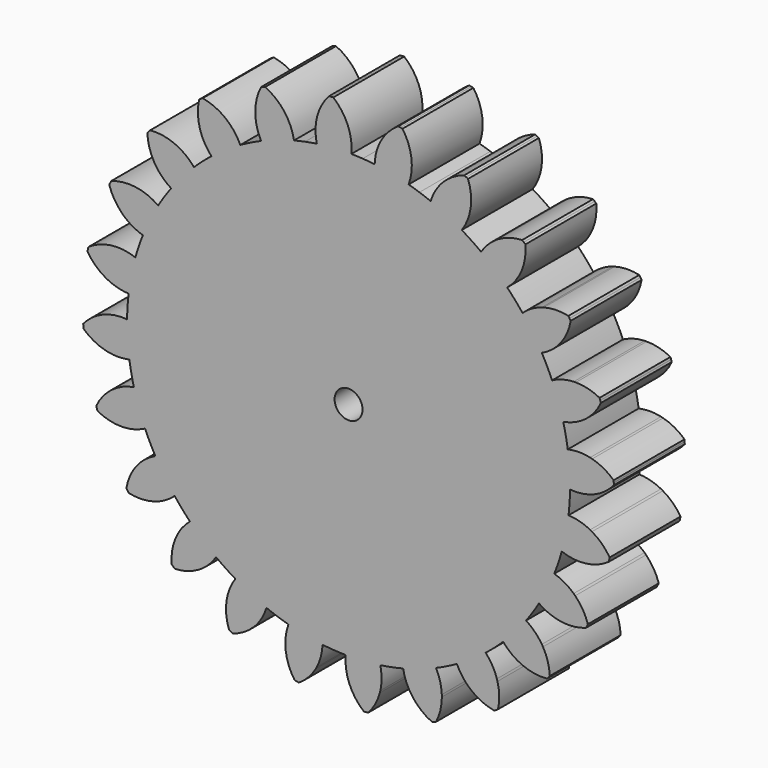
from build123d import *

# Parameters (mm, degrees)
F1_DEPTH = 12.7
F2_COUNT = 24
F2_ANGLE = 345
F4_D     = 8


with BuildPart() as f1:
    # F0 (on Front) → F1 (new body, symmetric)
    with BuildSketch(Plane.XZ):
        with BuildLine():
            Line((-31.75, 54.9926131403), (0, 0))
            Line((0, 0), (-16.435009364, 61.3362899694))
            ThreePointArc((-16.435009364, 61.3362899694), (-24.3003979552, 58.6663503145), (-31.75, 54.9926131403))
        make_face()
        with BuildLine():
            Line((-44.9012806053, 44.9012806053), (0, 0))
            Line((0, 0), (-31.75, 54.9926131403))
            ThreePointArc((-31.75, 54.9926131403), (-38.6563507421, 50.3779371085), (-44.9012806053, 44.9012806053))
        make_face()
        with BuildLine():
            Line((0, 0), (0, 55.245))
            ThreePointArc((0, 55.245), (-1.8403425433, 55.3614126181), (-3.6513473128, 55.7087946836))
            Line((-3.6513473128, 55.7087946836), (0, 0))
        make_face()
        with BuildLine():
            Line((-63.4999718868, 0.0597526459), (0, 0))
            Line((0, 0), (-61.3362899694, 16.435009364))
            ThreePointArc((-61.3362899694, 16.435009364), (-62.952842086, 8.3180330187), (-63.4999718868, 0.0597526459))
        make_face()
        with BuildLine():
            Line((-16.435009364, 61.3362899694), (0, 0))
            Line((0, 0), (-3.6513473128, 55.7087946836))
            ThreePointArc((-3.6513473128, 55.7087946836), (-8.7052871089, 58.122937224), (-12.4789617732, 62.26175))
            ThreePointArc((-12.4789617732, 62.26175), (-14.4643890572, 61.8306675461), (-16.435009364, 61.3362899694))
        make_face()
        with BuildLine():
            Line((-61.3362899694, 16.435009364), (0, 0))
            Line((0, 0), (-54.9926131403, 31.75))
            ThreePointArc((-54.9926131403, 31.75), (-58.6663503145, 24.3003979552), (-61.3362899694, 16.435009364))
        make_face()
        with BuildLine():
            Line((-54.9926131403, 31.75), (0, 0))
            Line((0, 0), (-44.9012806053, 44.9012806053))
            ThreePointArc((-44.9012806053, 44.9012806053), (-50.3779371085, 38.6563507421), (-54.9926131403, 31.75))
        make_face()
        with BuildLine():
            Line((54.9926131403, 31.75), (0, 0))
            Line((0, 0), (61.3362899694, 16.435009364))
            ThreePointArc((61.3362899694, 16.435009364), (58.6663503145, 24.3003979552), (54.9926131403, 31.75))
        make_face()
        with BuildLine():
            Line((31.75, 54.9926131403), (0, 0))
            Line((0, 0), (44.9012806053, 44.9012806053))
            ThreePointArc((44.9012806053, 44.9012806053), (38.6563507421, 50.3779371085), (31.75, 54.9926131403))
        make_face()
        with BuildLine():
            Line((61.3362899694, 16.435009364), (0, 0))
            Line((0, 0), (63.5, 0))
            ThreePointArc((63.5, 0), (62.9567486972, 8.288413206), (61.3362899694, 16.435009364))
        make_face()
        with BuildLine():
            ThreePointArc((12.4789617732, 62.26175), (7.158199276, 57.1194773035), (0, 55.245))
            Line((0, 55.245), (0, 0))
            Line((0, 0), (16.435009364, 61.3362899694))
            ThreePointArc((16.435009364, 61.3362899694), (14.4643890572, 61.8306675461), (12.4789617732, 62.26175))
        make_face()
        with BuildLine():
            Line((16.435009364, 61.3362899694), (0, 0))
            Line((0, 0), (31.75, 54.9926131403))
            ThreePointArc((31.75, 54.9926131403), (24.3003979552, 58.6663503145), (16.435009364, 61.3362899694))
        make_face()
        with BuildLine():
            Line((44.9012806053, 44.9012806053), (0, 0))
            Line((0, 0), (54.9926131403, 31.75))
            ThreePointArc((54.9926131403, 31.75), (50.3779371085, 38.6563507421), (44.9012806053, 44.9012806053))
        make_face()
        with BuildLine():
            Line((-54.9926131403, -31.75), (0, 0))
            Line((0, 0), (-61.3362899694, -16.435009364))
            ThreePointArc((-61.3362899694, -16.435009364), (-58.6663503145, -24.3003979552), (-54.9926131403, -31.75))
        make_face()
        with BuildLine():
            Line((-31.75, -54.9926131403), (0, 0))
            Line((0, 0), (-44.9012806053, -44.9012806053))
            ThreePointArc((-44.9012806053, -44.9012806053), (-38.6563507421, -50.3779371085), (-31.75, -54.9926131403))
        make_face()
        with BuildLine():
            Line((-44.9012806053, -44.9012806053), (0, 0))
            Line((0, 0), (-54.9926131403, -31.75))
            ThreePointArc((-54.9926131403, -31.75), (-50.3779371085, -38.6563507421), (-44.9012806053, -44.9012806053))
        make_face()
        with BuildLine():
            Line((0, -63.5), (0, 0))
            Line((0, 0), (-16.435009364, -61.3362899694))
            ThreePointArc((-16.435009364, -61.3362899694), (-8.288413206, -62.9567486972), (0, -63.5))
        make_face()
        with BuildLine():
            Line((-16.435009364, -61.3362899694), (0, 0))
            Line((0, 0), (-31.75, -54.9926131403))
            ThreePointArc((-31.75, -54.9926131403), (-24.3003979552, -58.6663503145), (-16.435009364, -61.3362899694))
        make_face()
        with BuildLine():
            Line((-61.3362899694, -16.435009364), (0, 0))
            Line((0, 0), (-63.4999718868, 0.0597526459))
            ThreePointArc((-63.4999718868, 0.0597526459), (-62.9606413722, -8.2587915585), (-61.3362899694, -16.435009364))
        make_face()
        with BuildLine():
            Line((0, 55.245), (0, 63.5))
            ThreePointArc((0, 63.5), (-2.0776617592, 63.4660013047), (-4.1530987061, 63.3640416257))
            Line((-4.1530987061, 63.3640416257), (-3.6513473128, 55.7087946836))
            ThreePointArc((-3.6513473128, 55.7087946836), (-1.8403425433, 55.3614126181), (0, 55.245))
        make_face()
        with BuildLine():
            Line((-3.6513473128, 55.7087946836), (-4.1530987061, 63.3640416257))
            ThreePointArc((-4.1530987061, 63.3640416257), (-6.6306628061, 63.1528646282), (-9.0980596657, 62.8448511043))
            ThreePointArc((-9.0980596657, 62.8448511043), (-10.7924494564, 62.576137902), (-12.4789617732, 62.26175))
            ThreePointArc((-12.4789617732, 62.26175), (-8.7052871089, 58.122937224), (-3.6513473128, 55.7087946836))
        make_face()
        with BuildLine():
            ThreePointArc((0.8173253887, 63.4947397759), (0.4086711578, 63.4986849304), (0, 63.5))
            Line((0, 63.5), (0, 55.245))
            ThreePointArc((0, 55.245), (7.158199276, 57.1194773035), (12.4789617732, 62.26175))
            ThreePointArc((12.4789617732, 62.26175), (6.6766667597, 63.1480175538), (0.8173253887, 63.4947397759))
        make_face()
        with BuildLine():
            Line((0, 63.5), (0, 69.85))
            Line((0, 69.85), (-4.4715384401, 68.2224931064))
            Line((-4.4715384401, 68.2224931064), (-4.1530987061, 63.3640416257))
            ThreePointArc((-4.1530987061, 63.3640416257), (-2.0776617592, 63.4660013047), (0, 63.5))
        make_face()
        with BuildLine():
            Line((-4.1530987061, 63.3640416257), (-4.4715384401, 68.2224931064))
            Line((-4.4715384401, 68.2224931064), (-9.4600431371, 66.4068258832))
            ThreePointArc((-9.4600431371, 66.4068258832), (-9.3886138378, 64.6147042793), (-9.0980596657, 62.8448511043))
            ThreePointArc((-9.0980596657, 62.8448511043), (-6.6306628061, 63.1528646282), (-4.1530987061, 63.3640416257))
        make_face()
        with BuildLine():
            Line((-4.4715384401, 68.2224931064), (-4.5684085767, 69.7004457882))
            ThreePointArc((-4.5684085767, 69.7004457882), (-6.846497252, 69.5136531581), (-9.1172545266, 69.252423567))
            ThreePointArc((-9.1172545266, 69.252423567), (-9.3586222424, 67.8380539167), (-9.4600431371, 66.4068258832))
            Line((-9.4600431371, 66.4068258832), (-4.4715384401, 68.2224931064))
        make_face()
        with BuildLine():
            ThreePointArc((-9.1172545266, 69.252423567), (-6.846497252, 69.5136531581), (-4.5684085767, 69.7004457882))
            Line((-4.5684085767, 69.7004457882), (-4.5782108776, 69.85))
            Line((-4.5782108776, 69.85), (-8.9715081429, 69.85))
            ThreePointArc((-8.9715081429, 69.85), (-9.0475275684, 69.5519791367), (-9.1172545266, 69.252423567))
        make_face()
        with BuildLine():
            Line((-8.9715081429, 69.85), (-4.5782108776, 69.85))
            Line((-4.5782108776, 69.85), (-4.9837184473, 76.0368499508))
            ThreePointArc((-4.9837184473, 76.0368499508), (-5.2884845579, 76.0162609649), (-5.5931656854, 75.9944504396))
            ThreePointArc((-5.5931656854, 75.9944504396), (-7.6565566905, 73.1279787809), (-8.9715081429, 69.85))
        make_face()
        with BuildLine():
            Line((-4.5782108776, 69.85), (0, 69.85))
            ThreePointArc((0, 69.85), (-1.7745886081, 73.2519712977), (-4.3739508681, 76.0743620006))
            ThreePointArc((-4.3739508681, 76.0743620006), (-4.6788722512, 76.0562170664), (-4.9837184473, 76.0368499508))
            Line((-4.9837184473, 76.0368499508), (-4.5782108776, 69.85))
        make_face()
        with BuildLine():
            ThreePointArc((0.8173253887, 63.4947397759), (0.7614871945, 66.7177452796), (0, 69.85))
            Line((0, 69.85), (0, 63.5))
            ThreePointArc((0, 63.5), (0.4086711578, 63.4986849304), (0.8173253887, 63.4947397759))
        make_face()
        with BuildLine():
            ThreePointArc((-4.5684085767, 69.7004457882), (-2.2854279351, 69.8126014352), (0, 69.85))
            Line((0, 69.85), (-4.5782108776, 69.85))
            Line((-4.5782108776, 69.85), (-4.5684085767, 69.7004457882))
        make_face()
        with BuildLine():
            Line((-4.4715384401, 68.2224931064), (0, 69.85))
            ThreePointArc((0, 69.85), (-2.2854279351, 69.8126014352), (-4.5684085767, 69.7004457882))
            Line((-4.5684085767, 69.7004457882), (-4.4715384401, 68.2224931064))
        make_face()
        with BuildLine():
            Line((54.9926131403, -31.75), (0, 0))
            Line((0, 0), (44.9012806053, -44.9012806053))
            ThreePointArc((44.9012806053, -44.9012806053), (50.3779371085, -38.6563507421), (54.9926131403, -31.75))
        make_face()
        with BuildLine():
            Line((61.3362899694, -16.435009364), (0, 0))
            Line((0, 0), (54.9926131403, -31.75))
            ThreePointArc((54.9926131403, -31.75), (58.6663503145, -24.3003979552), (61.3362899694, -16.435009364))
        make_face()
        with BuildLine():
            Line((63.5, 0), (0, 0))
            Line((0, 0), (61.3362899694, -16.435009364))
            ThreePointArc((61.3362899694, -16.435009364), (62.9567486972, -8.288413206), (63.5, 0))
        make_face()
        with BuildLine():
            Line((44.9012806053, -44.9012806053), (0, 0))
            Line((0, 0), (31.75, -54.9926131403))
            ThreePointArc((31.75, -54.9926131403), (38.6563507421, -50.3779371085), (44.9012806053, -44.9012806053))
        make_face()
        with BuildLine():
            Line((16.435009364, -61.3362899694), (0, 0))
            Line((0, 0), (0, -63.5))
            ThreePointArc((0, -63.5), (8.288413206, -62.9567486972), (16.435009364, -61.3362899694))
        make_face()
        with BuildLine():
            Line((31.75, -54.9926131403), (0, 0))
            Line((0, 0), (16.435009364, -61.3362899694))
            ThreePointArc((16.435009364, -61.3362899694), (24.3003979552, -58.6663503145), (31.75, -54.9926131403))
        make_face()
    extrude(amount=F1_DEPTH, both=True)

    # F2: F1 ×24 about axis
    f2_axis = Axis((0, 0, 0), (0, -1, 0))


with BuildPart() as f1_1:
    add(f1.part)
    for i in range(1, F2_COUNT):
        add(f1.part.rotate(f2_axis, i * F2_ANGLE / (F2_COUNT - 1)))

    # F4 (through all)
    with Locations(Plane.XZ.offset(12.7)):
        with Locations((0, 0)):
            Hole(F4_D / 2)


solid = f1_1.part
